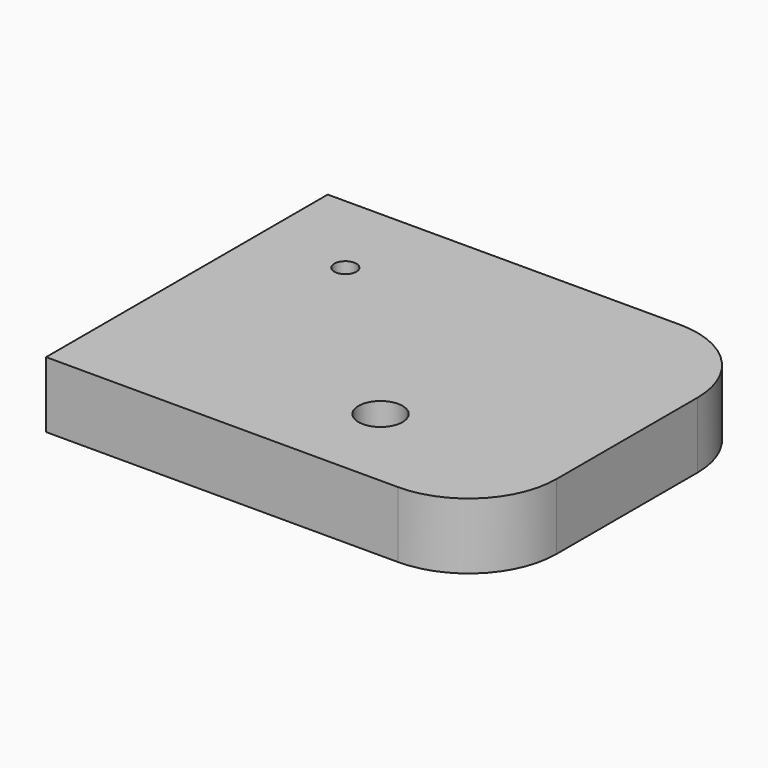
from build123d import *

# Parameters (mm, degrees)
F0_W     = 127
F0_H     = 101.6
F1_DEPTH = 19.05
F2_R     = 3.175
F3_DEPTH = 25.4
F4_R     = 6.35
F5_DEPTH = 25.4
F6_R     = 25.4


with BuildPart() as f1:
    # F0 (on Top) → F1 (new body)
    with BuildSketch(Plane.XY):
        Rectangle(F0_W, F0_H)
    extrude(amount=F1_DEPTH)

    # F2 (on face) → F3 (cut)
    with BuildSketch(Plane.XY.offset(19.05)):
        with Locations((-38.1, 25.4)):
            Circle(F2_R)
    extrude(amount=-F3_DEPTH, mode=Mode.SUBTRACT)

    # F4 (on face) → F5 (cut)
    with BuildSketch(Plane.XY.offset(19.05)):
        with Locations((12.7, -25.4)):
            Circle(F4_R)
    extrude(amount=-F5_DEPTH, mode=Mode.SUBTRACT)

    # F6
    f6_edges = [f1.edges().sort_by_distance(p)[0] for p in [
        (63.5, -50.8, 9.525),
        (63.5, 50.8, 9.525),
    ]]
    fillet(f6_edges, radius=F6_R)


solid = f1.part
